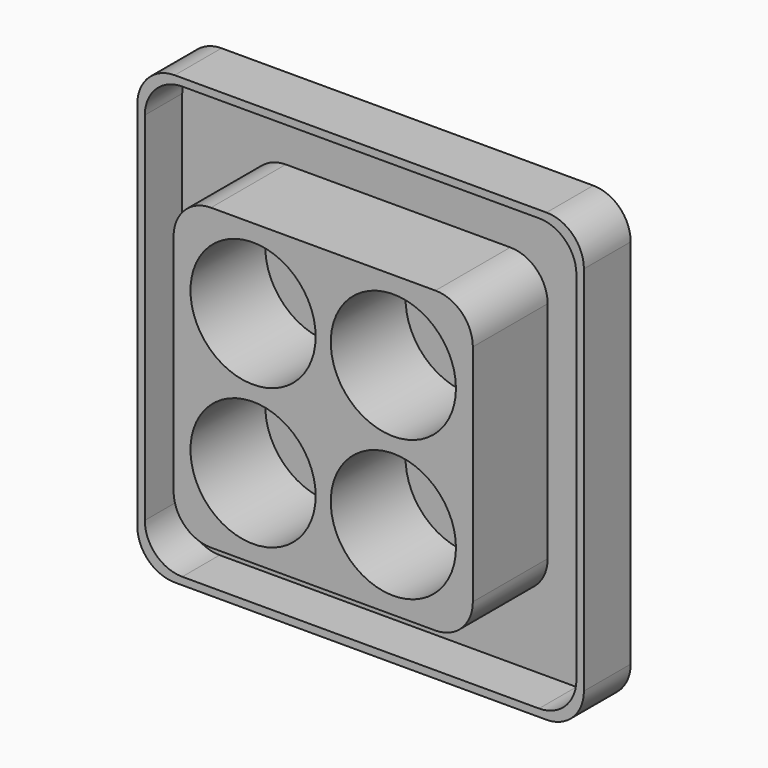
from build123d import *

# Parameters (mm, degrees)
F0_R     = 8.5
F1_DEPTH = 1.5875
F2_DEPTH = 12.7
F3_DEPTH = 6.35


with BuildPart() as f1:
    # F0 (on Front) → F1 (new body)
    with BuildSketch(Plane.XZ):
        with BuildLine():
            Line((4.92, 50.64), (-45.56, 50.64))
            ThreePointArc((-45.56, 50.64), (-49.1521024484, 49.1521024484), (-50.64, 45.56))
            Line((-50.64, 45.56), (-50.64, -4.92))
            ThreePointArc((-50.64, -4.92), (-49.1521024484, -8.5121024484), (-45.56, -10))
            Line((-45.56, -10), (4.92, -10))
            ThreePointArc((4.92, -10), (8.5121024484, -8.5121024484), (10, -4.92))
            Line((10, -4.92), (10, 45.56))
            ThreePointArc((10, 45.56), (8.5121024484, 49.1521024484), (4.92, 50.64))
        make_face()
        with BuildLine():
            ThreePointArc((-49.624, 44.544), (-48.1361024484, 48.1361024484), (-44.544, 49.624))
            Line((-44.544, 49.624), (3.904, 49.624))
            ThreePointArc((3.904, 49.624), (7.4961024484, 48.1361024484), (8.984, 44.544))
            Line((8.984, 44.544), (8.984, -3.904))
            ThreePointArc((8.984, -3.904), (7.4961024484, -7.4961024484), (3.904, -8.984))
            Line((3.904, -8.984), (-44.544, -8.984))
            ThreePointArc((-44.544, -8.984), (-48.1361024484, -7.4961024484), (-49.624, -3.904))
            Line((-49.624, -3.904), (-49.624, 44.544))
        make_face(mode=Mode.SUBTRACT)
        with BuildLine():
            Line((3.904, 49.624), (-44.544, 49.624))
            ThreePointArc((-44.544, 49.624), (-48.1361024484, 48.1361024484), (-49.624, 44.544))
            Line((-49.624, 44.544), (-49.624, -3.904))
            ThreePointArc((-49.624, -3.904), (-48.1361024484, -7.4961024484), (-44.544, -8.984))
            Line((-44.544, -8.984), (3.904, -8.984))
            ThreePointArc((3.904, -8.984), (7.4961024484, -7.4961024484), (8.984, -3.904))
            Line((8.984, -3.904), (8.984, 44.544))
            ThreePointArc((8.984, 44.544), (7.4961024484, 48.1361024484), (3.904, 49.624))
        make_face()
        with BuildLine():
            ThreePointArc((-40.64, 35.56), (-39.1521024484, 39.1521024484), (-35.56, 40.64))
            Line((-35.56, 40.64), (-5.08, 40.64))
            ThreePointArc((-5.08, 40.64), (-1.4878975516, 39.1521024484), (0, 35.56))
            Line((0, 35.56), (0, 5.08))
            ThreePointArc((0, 5.08), (-1.4878975516, 1.4878975516), (-5.08, 0))
            Line((-5.08, 0), (-35.56, 0))
            ThreePointArc((-35.56, 0), (-39.1521024484, 1.4878975516), (-40.64, 5.08))
            Line((-40.64, 5.08), (-40.64, 35.56))
        make_face(mode=Mode.SUBTRACT)
        with BuildLine():
            Line((-5.08, 40.64), (-35.56, 40.64))
            ThreePointArc((-35.56, 40.64), (-39.1521024484, 39.1521024484), (-40.64, 35.56))
            Line((-40.64, 35.56), (-40.64, 5.08))
            ThreePointArc((-40.64, 5.08), (-39.1521024484, 1.4878975516), (-35.56, 0))
            Line((-35.56, 0), (-5.08, 0))
            ThreePointArc((-5.08, 0), (-1.4878975516, 1.4878975516), (0, 5.08))
            Line((0, 5.08), (0, 35.56))
            ThreePointArc((0, 35.56), (-1.4878975516, 39.1521024484), (-5.08, 40.64))
        make_face()
        with Locations((-29.845, 10.795)):
            Circle(F0_R, mode=Mode.SUBTRACT)
        with Locations((-10.795, 10.795)):
            Circle(F0_R, mode=Mode.SUBTRACT)
        with Locations((-29.845, 29.845)):
            Circle(F0_R, mode=Mode.SUBTRACT)
        with Locations((-10.795, 29.845)):
            Circle(F0_R, mode=Mode.SUBTRACT)
        with Locations((-10.795, 29.845)):
            Circle(F0_R)
        with Locations((-29.845, 29.845)):
            Circle(F0_R)
        with Locations((-29.845, 10.795)):
            Circle(F0_R)
        with Locations((-10.795, 10.795)):
            Circle(F0_R)
    extrude(amount=-F1_DEPTH)

    # F0 (on Front) → F2 (join)
    with BuildSketch(Plane.XZ):
        with BuildLine():
            Line((-5.08, 40.64), (-35.56, 40.64))
            ThreePointArc((-35.56, 40.64), (-39.1521024484, 39.1521024484), (-40.64, 35.56))
            Line((-40.64, 35.56), (-40.64, 5.08))
            ThreePointArc((-40.64, 5.08), (-39.1521024484, 1.4878975516), (-35.56, 0))
            Line((-35.56, 0), (-5.08, 0))
            ThreePointArc((-5.08, 0), (-1.4878975516, 1.4878975516), (0, 5.08))
            Line((0, 5.08), (0, 35.56))
            ThreePointArc((0, 35.56), (-1.4878975516, 39.1521024484), (-5.08, 40.64))
        make_face()
        with Locations((-29.845, 10.795)):
            Circle(F0_R, mode=Mode.SUBTRACT)
        with Locations((-10.795, 10.795)):
            Circle(F0_R, mode=Mode.SUBTRACT)
        with Locations((-29.845, 29.845)):
            Circle(F0_R, mode=Mode.SUBTRACT)
        with Locations((-10.795, 29.845)):
            Circle(F0_R, mode=Mode.SUBTRACT)
    extrude(amount=F2_DEPTH)

    # F0 (on Front) → F3 (join)
    with BuildSketch(Plane.XZ):
        with BuildLine():
            Line((4.92, 50.64), (-45.56, 50.64))
            ThreePointArc((-45.56, 50.64), (-49.1521024484, 49.1521024484), (-50.64, 45.56))
            Line((-50.64, 45.56), (-50.64, -4.92))
            ThreePointArc((-50.64, -4.92), (-49.1521024484, -8.5121024484), (-45.56, -10))
            Line((-45.56, -10), (4.92, -10))
            ThreePointArc((4.92, -10), (8.5121024484, -8.5121024484), (10, -4.92))
            Line((10, -4.92), (10, 45.56))
            ThreePointArc((10, 45.56), (8.5121024484, 49.1521024484), (4.92, 50.64))
        make_face()
        with BuildLine():
            ThreePointArc((-49.624, 44.544), (-48.1361024484, 48.1361024484), (-44.544, 49.624))
            Line((-44.544, 49.624), (3.904, 49.624))
            ThreePointArc((3.904, 49.624), (7.4961024484, 48.1361024484), (8.984, 44.544))
            Line((8.984, 44.544), (8.984, -3.904))
            ThreePointArc((8.984, -3.904), (7.4961024484, -7.4961024484), (3.904, -8.984))
            Line((3.904, -8.984), (-44.544, -8.984))
            ThreePointArc((-44.544, -8.984), (-48.1361024484, -7.4961024484), (-49.624, -3.904))
            Line((-49.624, -3.904), (-49.624, 44.544))
        make_face(mode=Mode.SUBTRACT)
    extrude(amount=F3_DEPTH)


solid = f1.part
